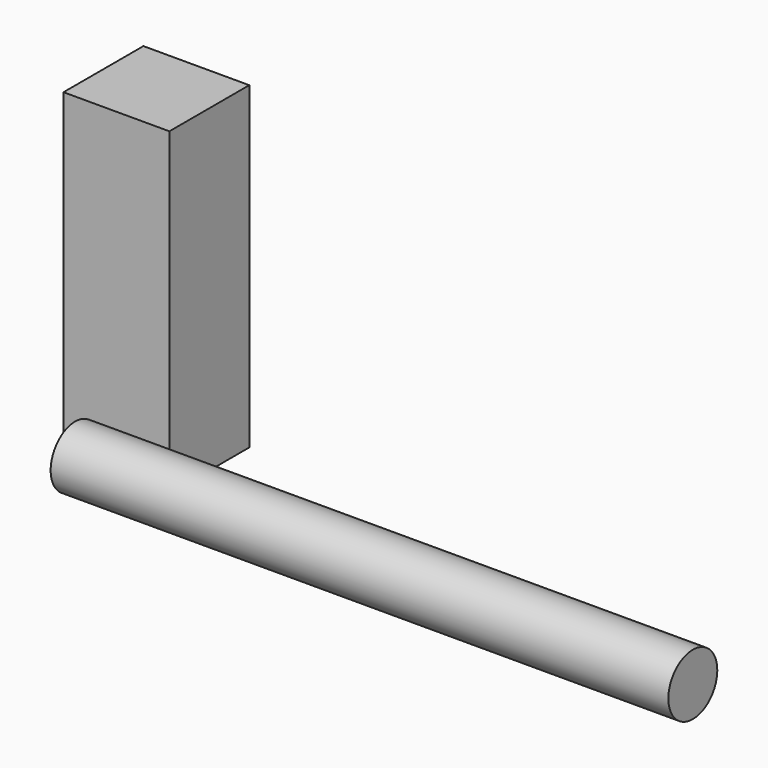
from build123d import *

# Parameters (mm, degrees)
F0_W     = 49.312842
F0_H     = 46.528318
F1_DEPTH = 148.59
F2_R     = 14.250175
F3_DEPTH = 287.782


with BuildPart() as f1:
    # F0 (on Top) → F1 (new body)
    with BuildSketch(Plane.XY):
        Rectangle(F0_W, F0_H)
    extrude(amount=F1_DEPTH)


with BuildPart() as f3:
    # F2 (on Right) → F3 (new body)
    with BuildSketch(Plane.YZ):
        with Locations((-47.321323, 17.078064)):
            Circle(F2_R)
    extrude(amount=F3_DEPTH)


solid = Compound([f1.part, f3.part])
